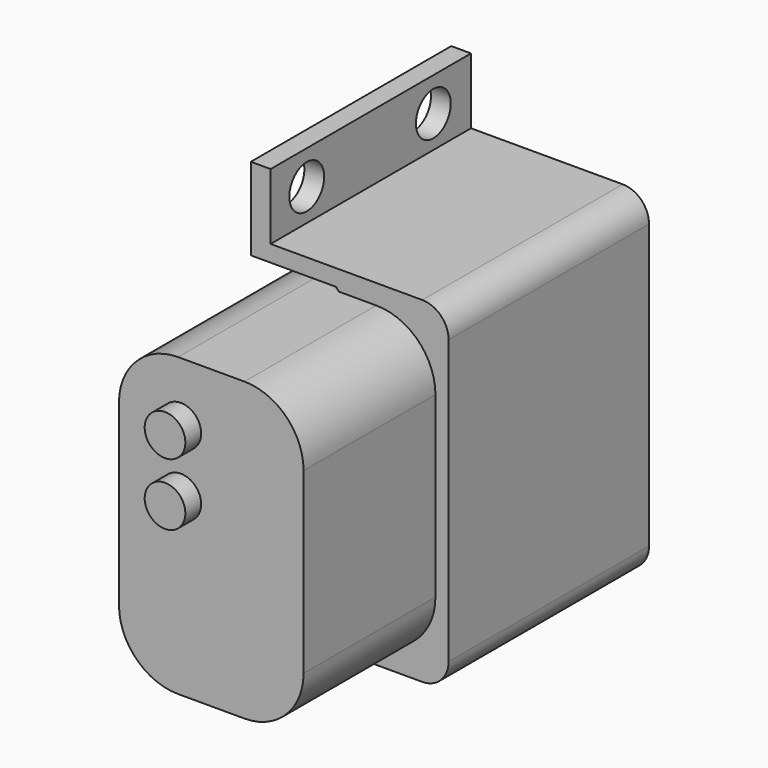
from build123d import *

# Parameters (mm, degrees)
PAD002_DEPTH    = 58
SKETCH005_R     = 3.082866
PAD003_DEPTH    = 3
BOX001_W        = 15
BOX001_H        = 38
BOX001_DEPTH    = 46
PAD_DEPTH       = 58
SKETCH001_R     = 3.082866
PAD001_DEPTH    = 3
BOX_W           = 30
BOX_H           = 38
BOX_DEPTH       = 51
FILLET_R        = 4
CHAMFER_SIZE    = 0.35
CHAMFER001_SIZE = 0.35
BOX003_W        = 3
BOX003_H        = 38
BOX003_DEPTH    = 10
SKETCH003_R     = 3.3
POCKET001_DEPTH = 5
BOX002_W        = 3
BOX002_H        = 38
BOX002_DEPTH    = 10
SKETCH002_R     = 3.3
POCKET_DEPTH    = 5


with BuildPart() as pad003:
    # Sketch004 → Pad002 (new body)
    with BuildSketch(Plane.XZ):
        with BuildLine():
            ThreePointArc((8.974731, 45), (2.628638, 42.371362), (0, 36.025269))
            Line((0, 36.025269), (0, 8.974751))
            ThreePointArc((0, 8.974751), (2.628631, 2.628645), (8.974731, 0))
            Line((19.025269, 0), (8.974731, 0))
            ThreePointArc((19.025269, 0), (25.371369, 2.628644), (28, 8.974749))
            Line((28, 36.025267), (28, 8.974749))
            ThreePointArc((28, 36.025267), (25.371363, 42.371361), (19.025269, 45))
            Line((8.974731, 45), (19.025269, 45))
        make_face()
    extrude(amount=PAD002_DEPTH)

    # Sketch005 → Pad003 (new body)
    with BuildSketch(Plane.XZ.offset(58)):
        with Locations((9.385798, 35.940002)):
            Circle(SKETCH005_R)
        with Locations((9.385798, 26.48562)):
            Circle(SKETCH005_R)
    extrude(amount=PAD003_DEPTH)


with BuildPart() as cubo001:
    # Box001 → Box001 (new body)
    with BuildSketch(Plane(origin=(-2, -38, -0.5), x_dir=(1, 0, 0), z_dir=(0, 0, 1))):
        with Locations((7.5, 19)):
            Rectangle(BOX001_W, BOX001_H)
    extrude(amount=BOX001_DEPTH)


with BuildPart() as pad001:
    # Sketch → Pad (new body)
    with BuildSketch(Plane.XZ):
        with BuildLine():
            ThreePointArc((8.974731, 45), (2.628638, 42.371362), (0, 36.025269))
            Line((0, 36.025269), (0, 8.974751))
            ThreePointArc((0, 8.974751), (2.628631, 2.628645), (8.974731, 0))
            Line((19.025269, 0), (8.974731, 0))
            ThreePointArc((19.025269, 0), (25.371369, 2.628644), (28, 8.974749))
            Line((28, 36.025267), (28, 8.974749))
            ThreePointArc((28, 36.025267), (25.371363, 42.371361), (19.025269, 45))
            Line((8.974731, 45), (19.025269, 45))
        make_face()
    extrude(amount=PAD_DEPTH)

    # Sketch001 → Pad001 (new body)
    with BuildSketch(Plane.XZ.offset(58)):
        with Locations((9.385798, 35.940002)):
            Circle(SKETCH001_R)
        with Locations((9.385798, 26.48562)):
            Circle(SKETCH001_R)
    extrude(amount=PAD001_DEPTH)


with BuildPart() as chamfer001:
    # Box → Box (new body)
    with BuildSketch(Plane(origin=(0, -33, -3), x_dir=(1, 0, 0), z_dir=(0, 0, 1))):
        with Locations((15, 19)):
            Rectangle(BOX_W, BOX_H)
    extrude(amount=BOX_DEPTH)

    # Fillet
    fillet_edges = [chamfer001.edges().sort_by_distance(p)[0] for p in [
        (30, -14, 48),
        (30, -14, -3),
    ]]
    fillet(fillet_edges, radius=FILLET_R)

    # Cut: cut Pad001
    add(pad001.part, mode=Mode.SUBTRACT)

    # Cut001: cut Cubo001
    add(cubo001.part, mode=Mode.SUBTRACT)

    # Chamfer
    chamfer_edges = [chamfer001.edges().sort_by_distance(p)[0] for p in [
        (13, -16.5, 45),
    ]]
    chamfer(chamfer_edges, length=CHAMFER_SIZE)

    # Chamfer001
    chamfer001_edges = [chamfer001.edges().sort_by_distance(p)[0] for p in [
        (13, -16.5, 0),
    ]]
    chamfer(chamfer001_edges, length=CHAMFER001_SIZE)


with BuildPart() as pocket001:
    # Box003 → Box003 (new body)
    with BuildSketch(Plane(origin=(0, -33, 48), x_dir=(1, 0, 0), z_dir=(0, 0, 1))):
        with Locations((1.5, 19)):
            Rectangle(BOX003_W, BOX003_H)
    extrude(amount=BOX003_DEPTH)

    # Sketch003 → Pocket001 (cut)
    with BuildSketch(Plane(origin=(3, -33, 48), x_dir=(0, 1, 0), z_dir=(1, 0, 0))):
        with Locations((6.8496, 4.863392)):
            Circle(SKETCH003_R)
        with Locations((30.854015, 4.863392)):
            Circle(SKETCH003_R)
    extrude(amount=-POCKET001_DEPTH, mode=Mode.SUBTRACT)


with BuildPart() as fusion:
    # Box002 → Box002 (new body)
    with BuildSketch(Plane(origin=(0, -33, -13), x_dir=(1, 0, 0), z_dir=(0, 0, 1))):
        with Locations((1.5, 19)):
            Rectangle(BOX002_W, BOX002_H)
    extrude(amount=BOX002_DEPTH)

    # Sketch002 → Pocket (cut)
    with BuildSketch(Plane(origin=(3, -33, -13), x_dir=(0, 1, 0), z_dir=(1, 0, 0))):
        with Locations((7.237305, 4.862617)):
            Circle(SKETCH002_R)
        with Locations((29.684685, 4.862617)):
            Circle(SKETCH002_R)
        with Locations((7.886075, 65.846821)):
            Circle(SKETCH002_R)
        with Locations((30.333455, 65.846821)):
            Circle(SKETCH002_R)
    extrude(amount=-POCKET_DEPTH, mode=Mode.SUBTRACT)

    # Fusion: union Chamfer001, Pocket001
    add(chamfer001.part)
    add(pocket001.part)


solid = Compound([pad003.part, fusion.part])
